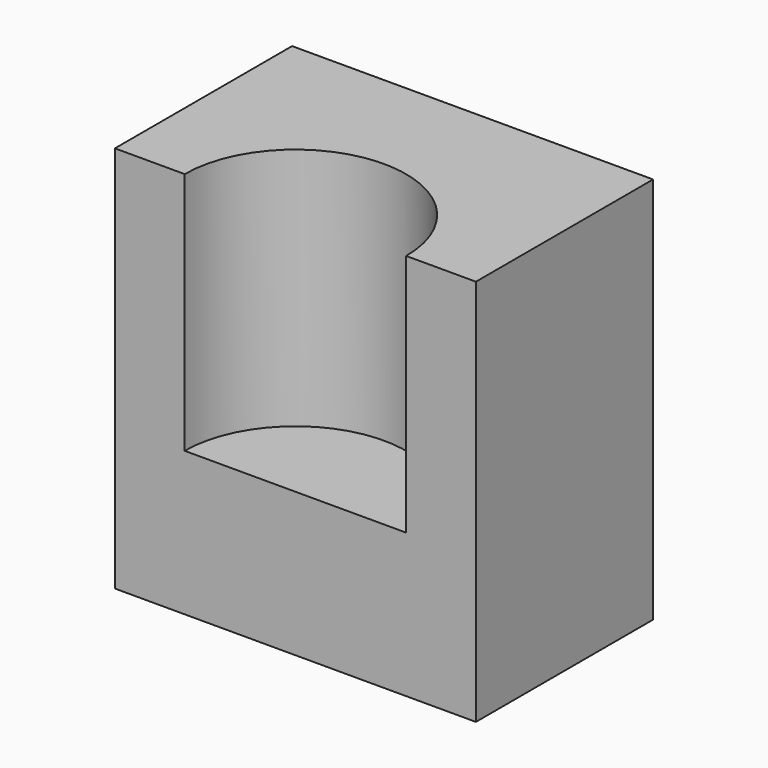
from build123d import *

# Parameters (mm, degrees)
F0_W     = 16.3
F0_H     = 10
F1_DEPTH = 17.5
F3_DEPTH = 11


with BuildPart() as f1:
    # F0 (on Top) → F1 (new body)
    with BuildSketch(Plane.XY):
        Rectangle(F0_W, F0_H)
    extrude(amount=F1_DEPTH)

    # F2 (on face) → F3 (cut)
    with BuildSketch(Plane.XY.offset(17.5)):
        with BuildLine():
            Line((-5, -5), (5, -5))
            ThreePointArc((5, -5), (0, 0), (-5, -5))
        make_face()
    extrude(amount=-F3_DEPTH, mode=Mode.SUBTRACT)


solid = f1.part
